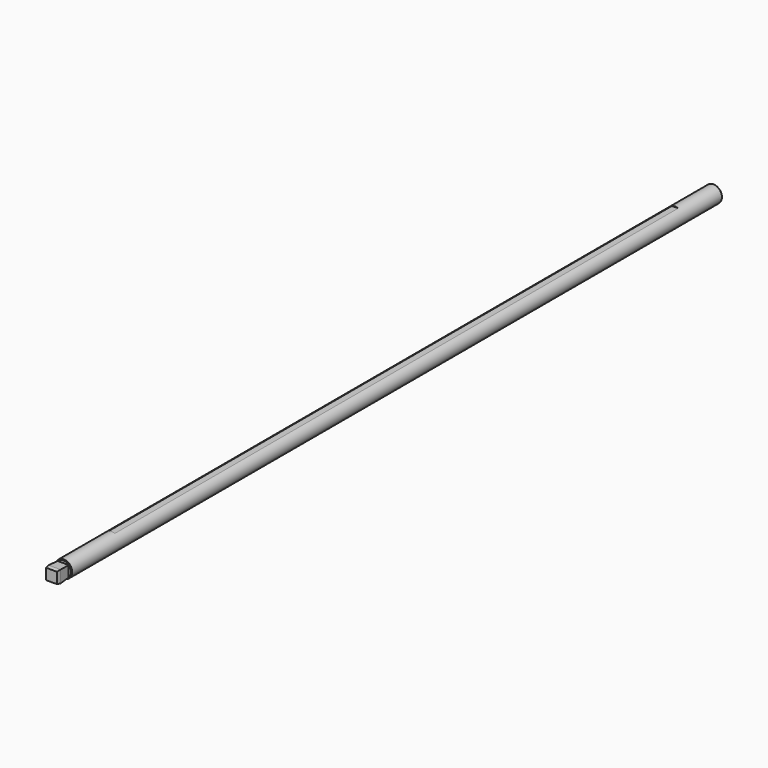
from build123d import *

# Parameters (mm, degrees)
F0_R      = 7
F1_DEPTH  = 670
F3_DEPTH  = 12
F5_DEPTH  = 25
F7_DEPTH  = 25
F8_DEPTH  = 25
F9_DEPTH  = 25
F12_DEPTH = 25
F13_DEPTH = 25
F14_DEPTH = 25
F15_DEPTH = 25
F16_SIZE  = 0.5
F18_W     = 68.437538
F18_H     = 580
F19_DEPTH = 0.5
F20_SIZE  = 0.5


with BuildPart() as f1:
    # F0 (on Front) → F1 (new body)
    with BuildSketch(Plane.XZ):
        Circle(F0_R)
    extrude(amount=-F1_DEPTH)

    # F16
    f16_edges = [f1.edges().sort_by_distance(p)[0] for p in [
        (-7, 0, 0),
    ]]
    chamfer(f16_edges, length=F16_SIZE)

    # F18 (on offset) → F19 (cut)
    with BuildSketch(Plane.XY.offset(7)):
        with Locations((2.298544, 340)):
            Rectangle(F18_W, F18_H)
    extrude(amount=-F19_DEPTH, mode=Mode.SUBTRACT)

    # F20
    f20_edges = [f1.edges().sort_by_distance(p)[0] for p in [
        (-7, 670, 0),
    ]]
    chamfer(f20_edges, length=F20_SIZE)


with BuildPart() as f3:
    # F2 (on Front) → F3 (new body)
    with BuildSketch(Plane.XZ):
        Polygon((5, 5), (-5, 5), (-5, 4.915034), (-5, -5), (5, -5), (5, 4.915034), align=None)
    extrude(amount=F3_DEPTH)

    # F4 (on face) → F5 (cut)
    with BuildSketch(Plane.YZ.offset(5)):
        Polygon((-9, -5), (-12, -4.5), (-12, -5), align=None)
    extrude(amount=-F5_DEPTH, mode=Mode.SUBTRACT)

    # F6 (on face) → F7 (cut)
    with BuildSketch(Plane.XY.offset(5)):
        Polygon((5, -9), (4.5, -12), (5, -12), align=None)
    extrude(amount=-F7_DEPTH, mode=Mode.SUBTRACT)

    # F6 (on face) → F8 (cut)
    with BuildSketch(Plane.XY.offset(5)):
        Polygon((-5, -12), (-4.5, -12), (-5, -9), align=None)
    extrude(amount=-F8_DEPTH, mode=Mode.SUBTRACT)

    # F4 (on face) → F9 (cut)
    with BuildSketch(Plane.YZ.offset(5)):
        Polygon((-12, 5), (-12, 4.5), (-9, 5), align=None)
    extrude(amount=-F9_DEPTH, mode=Mode.SUBTRACT)

    # F10 (on face) → F12 (cut)
    with BuildSketch(Plane.YZ.offset(5)):
        Polygon((0, 5), (-9, 5), (0, 4.5), align=None)
    extrude(amount=-F12_DEPTH, mode=Mode.SUBTRACT)

    # F11 (on face) → F13 (cut)
    with BuildSketch(Plane.XY.offset(5)):
        Polygon((4.5, 0), (5, -9), (5, 0), align=None)
    extrude(amount=-F13_DEPTH, mode=Mode.SUBTRACT)

    # F10 (on face) → F14 (cut)
    with BuildSketch(Plane.YZ.offset(5)):
        Polygon((0, -4.5), (-9, -5), (0, -5), align=None)
    extrude(amount=-F14_DEPTH, mode=Mode.SUBTRACT)

    # F11 (on face) → F15 (cut)
    with BuildSketch(Plane.XY.offset(5)):
        Polygon((-5, 0), (-5, -9), (-4.5, 0), align=None)
    extrude(amount=-F15_DEPTH, mode=Mode.SUBTRACT)


solid = Compound([f1.part, f3.part])
